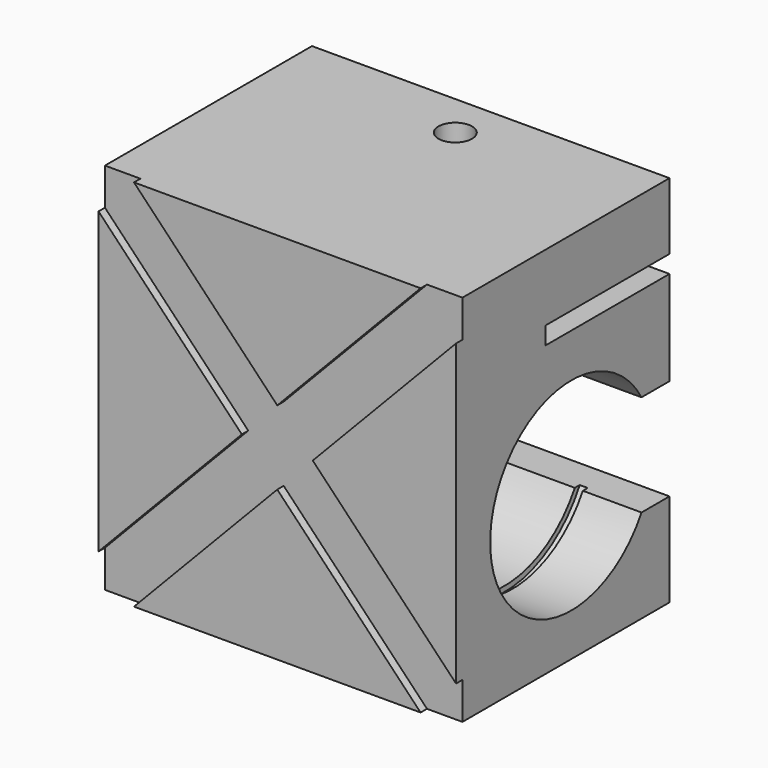
from build123d import *

# Parameters (mm, degrees)
F0_W      = 67
F0_H      = 50
F1_DEPTH  = 70
F2_W      = 29
F2_H      = 3.3
F3_DEPTH  = 67.001
F4_R      = 3.15
F5_DEPTH  = 12.5
F7_DEPTH  = 1.5
F9_DEPTH  = 67.001
F11_R     = 20
F12_DEPTH = 1.5
F14_R     = 20
F15_DEPTH = 1.5


with BuildPart() as f1:
    # F0 (on Top) → F1 (new body)
    with BuildSketch(Plane.XY):
        with Locations((33.5, 25)):
            Rectangle(F0_W, F0_H)
        with Locations((33.5, 25)):
            Rectangle(F0_W, F0_H)
    extrude(amount=F1_DEPTH)

    # F2 (on face) → F3 (cut, through all)
    with BuildSketch(Plane.YZ.offset(67)):
        with Locations((35.5, 55.85)):
            Rectangle(F2_W, F2_H)
    extrude(amount=-F3_DEPTH, mode=Mode.SUBTRACT)

    # F4 (on face) → F5 (cut, through all)
    with BuildSketch(Plane.XY.offset(70)):
        with Locations((33.5, 41.7)):
            Circle(F4_R)
    extrude(amount=-F5_DEPTH, mode=Mode.SUBTRACT)

    # F6 (on face) → F7 (cut)
    with BuildSketch(Plane.XZ):
        Polygon((0, 6.9418640507), (0, 0), (30.1778222043, 31.5290679747), (26.8556444086, 35), align=None)
        Polygon((30.1778222043, 31.5290679747), (0, 0), (6.6443555914, 0), (33.5, 28.0581359493), align=None)
        Polygon((26.8556444086, 35), (30.1778222043, 31.5290679747), (33.5, 35), (30.1778222043, 38.4709320253), align=None)
        Polygon((33.5, 35), (30.1778222043, 31.5290679747), (33.5, 28.0581359493), (36.8221777957, 31.5290679747), align=None)
        Polygon((30.1778222043, 38.4709320253), (33.5, 35), (36.8221777957, 38.4709320253), (33.5, 41.9418640507), align=None)
        Polygon((36.8221777957, 38.4709320253), (33.5, 35), (36.8221777957, 31.5290679747), (40.1443555914, 35), align=None)
        Polygon((0, 63.0581359493), (26.8556444086, 35), (30.1778222043, 38.4709320253), (0, 70), align=None)
        Polygon((36.8221777957, 31.5290679747), (33.5, 28.0581359493), (60.3556444086, 0), (67, 0), align=None)
        Polygon((33.5, 41.9418640507), (36.8221777957, 38.4709320253), (67, 70), (60.3556444086, 70), align=None)
        Polygon((67, 70), (36.8221777957, 38.4709320253), (40.1443555914, 35), (67, 63.0581359493), align=None)
        Polygon((0, 70), (30.1778222043, 38.4709320253), (33.5, 41.9418640507), (6.6443555914, 70), align=None)
        Polygon((40.1443555914, 35), (36.8221777957, 31.5290679747), (67, 0), (67, 6.9418640507), align=None)
    extrude(amount=-F7_DEPTH, mode=Mode.SUBTRACT)

    # F8 (on face) → F9 (cut, through all)
    with BuildSketch(Plane.YZ.offset(67)):
        with BuildLine():
            Line((43.4544826719, 36.5), (10.5455173281, 36.5))
            ThreePointArc((10.5455173281, 36.5), (8, 27), (10.5455173281, 17.5))
            Line((10.5455173281, 17.5), (43.4544826719, 17.5))
            ThreePointArc((43.4544826719, 17.5), (45.3525906995, 22.0824381431), (46, 27))
            ThreePointArc((46, 27), (45.3525906995, 31.9175618569), (43.4544826719, 36.5))
        make_face()
        with BuildLine():
            ThreePointArc((43.4544826719, 36.5), (27, 46), (10.5455173281, 36.5))
            Line((10.5455173281, 36.5), (43.4544826719, 36.5))
        make_face()
        with BuildLine():
            Line((43.4544826719, 17.5), (10.5455173281, 17.5))
            ThreePointArc((10.5455173281, 17.5), (27, 8), (43.4544826719, 17.5))
        make_face()
        with BuildLine():
            Line((50, 36.5), (43.4544826719, 36.5))
            ThreePointArc((43.4544826719, 36.5), (45.3525906995, 31.9175618569), (46, 27))
            Line((46, 27), (50, 27))
            Line((50, 27), (50, 36.5))
        make_face()
        with BuildLine():
            ThreePointArc((46, 27), (45.3525906995, 22.0824381431), (43.4544826719, 17.5))
            Line((43.4544826719, 17.5), (50, 17.5))
            Line((50, 17.5), (50, 27))
            Line((50, 27), (46, 27))
        make_face()
    extrude(amount=-F9_DEPTH, mode=Mode.SUBTRACT)

    # F11 (on offset) → F12 (cut)
    with BuildSketch(Plane.YZ.offset(56)):
        with Locations((27, 27)):
            Circle(F11_R)
    extrude(amount=-F12_DEPTH, mode=Mode.SUBTRACT)

    # F14 (on offset) → F15 (cut)
    with BuildSketch(Plane.YZ.offset(12.5)):
        with Locations((27, 27)):
            Circle(F14_R)
    extrude(amount=-F15_DEPTH, mode=Mode.SUBTRACT)


solid = f1.part
